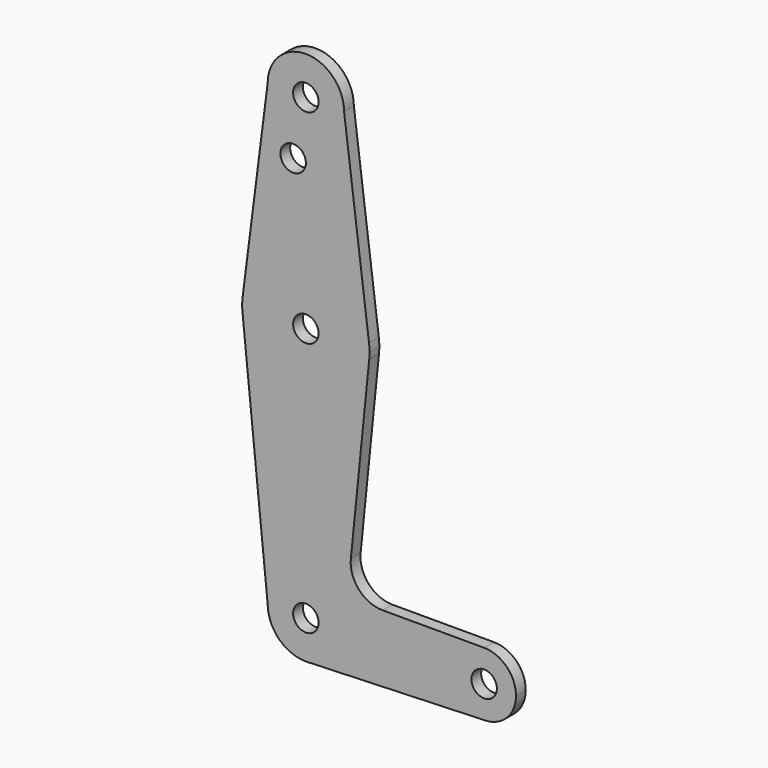
from build123d import *

# Parameters (mm, degrees)
F0_R     = 3.175
F1_DEPTH = 3.048


with BuildPart() as f1:
    # F0 (on Front) → F1 (new body)
    with BuildSketch(Plane.XZ):
        with BuildLine():
            ThreePointArc((-9.525, 114.3), (0, 104.775), (9.525, 114.3))
            ThreePointArc((9.525, 114.3), (0, 123.825), (-9.525, 114.3))
        make_face()
        with Locations((0, 114.3)):
            Circle(F0_R, mode=Mode.SUBTRACT)
        with BuildLine():
            Line((15.747457, 65.508289), (9.525, 114.3))
            ThreePointArc((9.525, 114.3), (0, 104.775), (-9.525, 114.3))
            Line((-9.525, 114.3), (-15.747457, 65.508289))
            ThreePointArc((-15.747457, 65.508289), (0, 79.375), (15.747457, 65.508289))
        make_face()
        with Locations((-3.175, 99.886943)):
            Circle(F0_R, mode=Mode.SUBTRACT)
        with BuildLine():
            ThreePointArc((15.875, 63.5), (15.843082, 64.506168), (15.747457, 65.508289))
            ThreePointArc((15.747457, 65.508289), (0, 79.375), (-15.747457, 65.508289))
            ThreePointArc((-15.747457, 65.508289), (-15.875, 63.5), (-15.747457, 61.491711))
            ThreePointArc((-15.747457, 61.491711), (0.205667, 47.626332), (15.794203, 61.90038))
            ThreePointArc((15.794203, 61.90038), (15.854788, 62.699171), (15.875, 63.5))
        make_face()
        with Locations((0, 63.5)):
            Circle(F0_R, mode=Mode.SUBTRACT)
        with BuildLine():
            ThreePointArc((15.794203, 61.90038), (0.205667, 47.626332), (-15.747457, 61.491711))
            Line((-15.747457, 61.491711), (-9.525, 0))
            ThreePointArc((-9.525, 0), (0, 9.525), (9.525, 0))
            ThreePointArc((9.525, 0), (6.97129, -6.490511), (0.67949, -9.500732))
            Line((0.67949, -9.500732), (44.45, -7.9375))
            ThreePointArc((44.45, -7.9375), (36.5125, 0), (44.45, 7.9375))
            Line((44.45, 7.9375), (19.124959, 7.9375))
            ThreePointArc((19.124959, 7.9375), (13.226887, 10.556806), (11.215222, 16.688789))
            Line((11.215222, 16.688789), (15.794203, 61.90038))
        make_face()
        with BuildLine():
            ThreePointArc((9.525, 0), (0, 9.525), (-9.525, 0))
            ThreePointArc((-9.525, 0), (-6.735192, -6.735192), (0, -9.525))
            Line((0, -9.525), (0.67949, -9.500732))
            ThreePointArc((0.67949, -9.500732), (6.97129, -6.490511), (9.525, 0))
        make_face()
        Circle(F0_R, mode=Mode.SUBTRACT)
        with BuildLine():
            Line((0.67949, -9.500732), (0, -9.525))
            ThreePointArc((0, -9.525), (0.339962, -9.518931), (0.67949, -9.500732))
        make_face()
        with BuildLine():
            ThreePointArc((52.3875, 0), (50.06266, 5.61266), (44.45, 7.9375))
            ThreePointArc((44.45, 7.9375), (36.5125, 0), (44.45, -7.9375))
            ThreePointArc((44.45, -7.9375), (50.06266, -5.61266), (52.3875, 0))
        make_face()
        with Locations((44.45, 0)):
            Circle(F0_R, mode=Mode.SUBTRACT)
    extrude(amount=F1_DEPTH)


solid = f1.part
